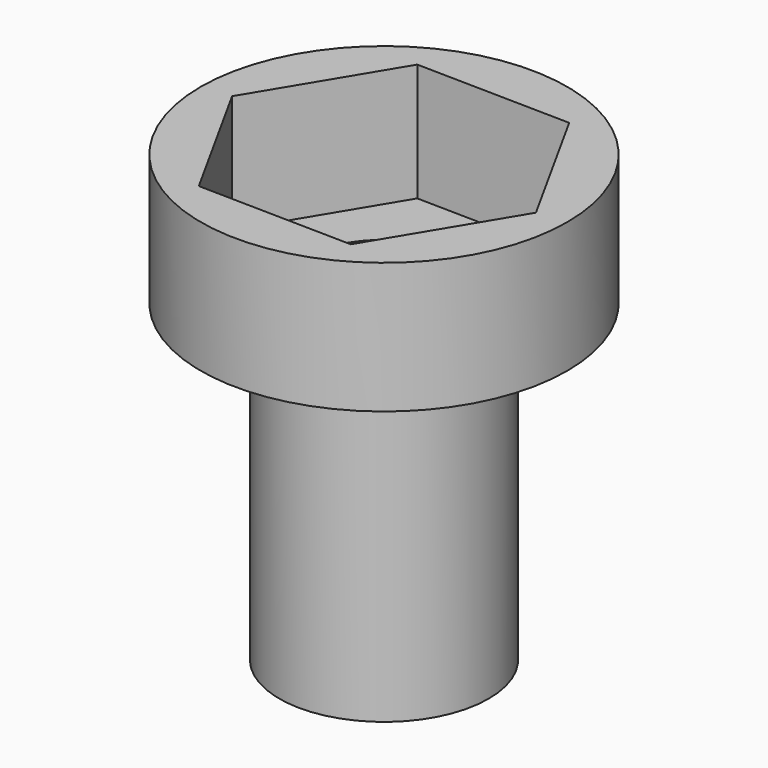
from build123d import *

# Parameters (mm, degrees)
F0_R     = 4
F1_DEPTH = 12
F2_R     = 7
F3_DEPTH = 5
F5_DEPTH = 4.5
F6_R     = 3.135896
F7_DEPTH = 25


with BuildPart() as f1:
    # F0 (on Top) → F1 (new body)
    with BuildSketch(Plane.XY):
        Circle(F0_R)
    extrude(amount=F1_DEPTH)

    # F2 (on face) → F3 (join)
    with BuildSketch(Plane.XY.offset(12)):
        Circle(F2_R)
    extrude(amount=F3_DEPTH)

    # F4 (on face) → F5 (cut)
    with BuildSketch(Plane.XY.offset(17)):
        Polygon((5.887997, -0.107183), (3.036822, 5.045564), (-2.851175, 5.152747), (-5.887997, 0.107183), (-3.036822, -5.045564), (2.851175, -5.152747), align=None)
    extrude(amount=-F5_DEPTH, mode=Mode.SUBTRACT)

    # F6 (on face) → F7 (cut)
    with BuildSketch(Plane(origin=(0, 0, 0), x_dir=(1, 0, 0), z_dir=(0, 0, -1))):
        Circle(F6_R)
    extrude(amount=-F7_DEPTH, mode=Mode.SUBTRACT)


solid = f1.part
